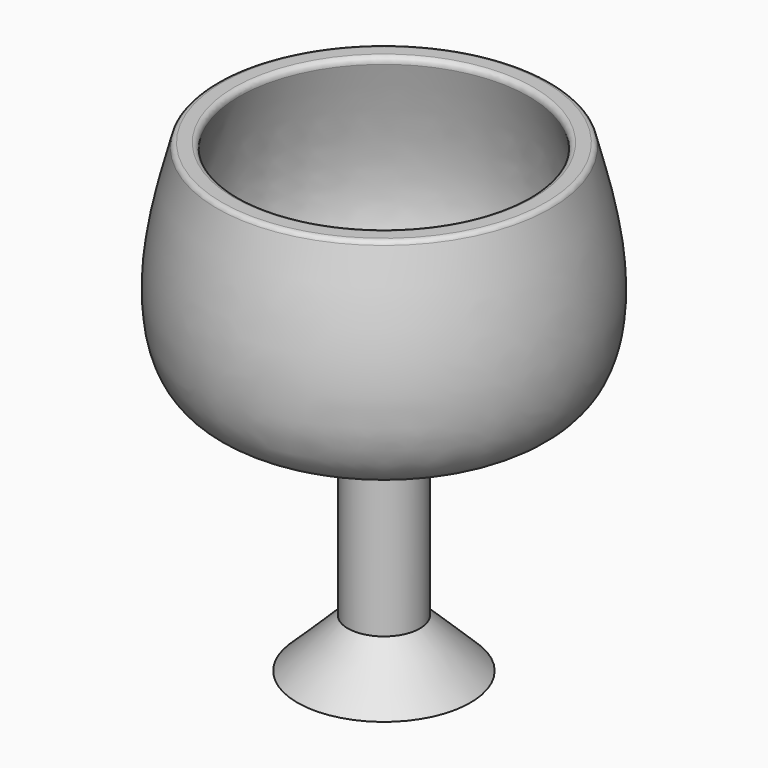
from build123d import *

# Parameters (mm, degrees)
F2_R = 0.508


with BuildPart() as f1:
    # F0 (on Front) → F1 (revolve)
    with BuildSketch(Plane.XZ):
        with BuildLine():
            Line((-3.607955285, 0), (-3.607955285, -21.053006822))
            Line((-3.607955285, -21.053006822), (-8.6540756747, -25.9524788707))
            Line((-8.6540756747, -25.9524788707), (0, -25.9524788707))
            Line((0, -25.9524788707), (0, 1.901750025))
            add(Edge.make_bspline(
                [(-14.3011576102, 20.5653405251), (-15.4718437963, 16.4360822845), (-17.5433795355, 9.129336785), (-15.7836026315, 1.0319503248), (-10.3829766218, -0.8304184403), (-4.0672481954, 2.4377960875), (-1.2278977043, 2.0635817348), (0, 1.901750025)],
                knots=[0, 0, 0, 0, 0.2698886769, 0.4775695199, 0.6448491219, 0.846412428, 1, 1, 1, 1], degree=3))
            Line((-14.3011576102, 20.5653405251), (-16.5965909944, 20.5653405251))
            add(Edge.make_bspline(
                [(-3.607955285, 0), (-5.807218732, -1.0394680065), (-10.1417196844, -3.0881425618), (-18.0731890279, -0.9297014812), (-19.6599719163, 9.2369233812), (-17.6662985507, 16.6095499366), (-16.5965909944, 20.5653405251)],
                knots=[0, 0, 0, 0, 0.2276637032, 0.4486995588, 0.7041991643, 1, 1, 1, 1], degree=3))
        make_face()
    revolve(axis=Axis((0, 0, -12.0253644229), (0, 0, -1)))

    # F2
    f2_edges = [f1.edges().sort_by_distance(p)[0] for p in [
        (16.596591, 0, 20.565341),
        (14.301158, 0, 20.565341),
    ]]
    fillet(f2_edges, radius=F2_R)


solid = f1.part
